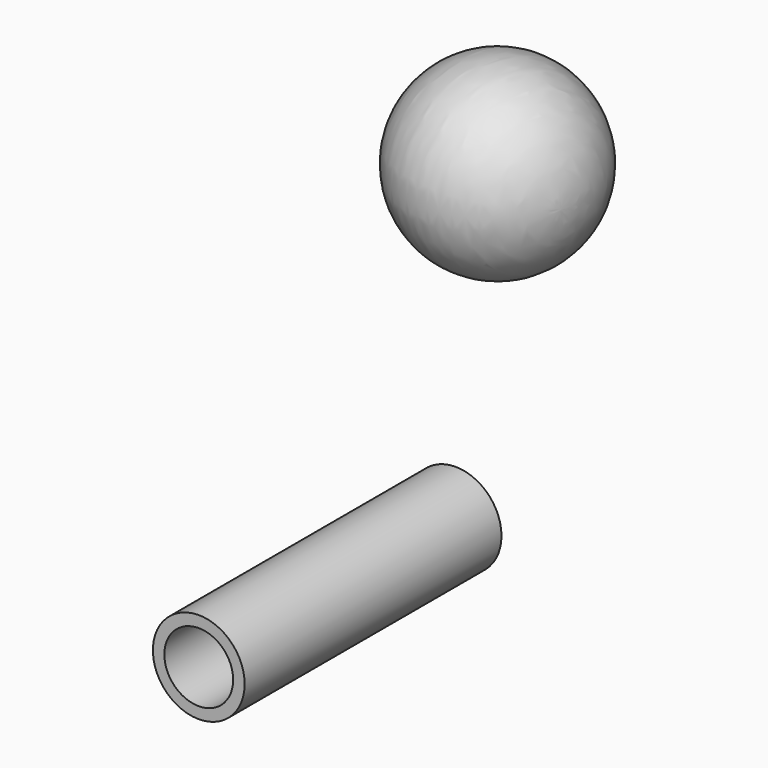
from build123d import *

# Parameters (mm, degrees)
F0_R     = 4
F1_DEPTH = 28
F2_T     = -1


with BuildPart() as f1:
    # F0 (on Front) → F1 (new body)
    with BuildSketch(Plane.XZ):
        Circle(F0_R)
    extrude(amount=F1_DEPTH)

    # F2
    f2_openings = [f1.faces().sort_by_distance(p)[0] for p in [
        (0, -28, 0),
    ]]
    offset(amount=F2_T, openings=f2_openings)


with BuildPart() as f4:
    # F3 (on Top) → F4 (revolve)
    with BuildSketch(Plane.XY):
        with BuildLine():
            Line((-22.9204601148, 40.0777425305), (-38.0577630125, 45.2604869348))
            ThreePointArc((-38.0577630125, 45.2604869348), (-33.0861503035, 35.0839129601), (-22.9204601148, 40.0777425305))
        make_face()
    revolve(axis=Axis((-30.4891115636, 42.6691147327, 0), (-0.9460836881, 0.323922298, 0)))


solid = Compound([f1.part, f4.part])
